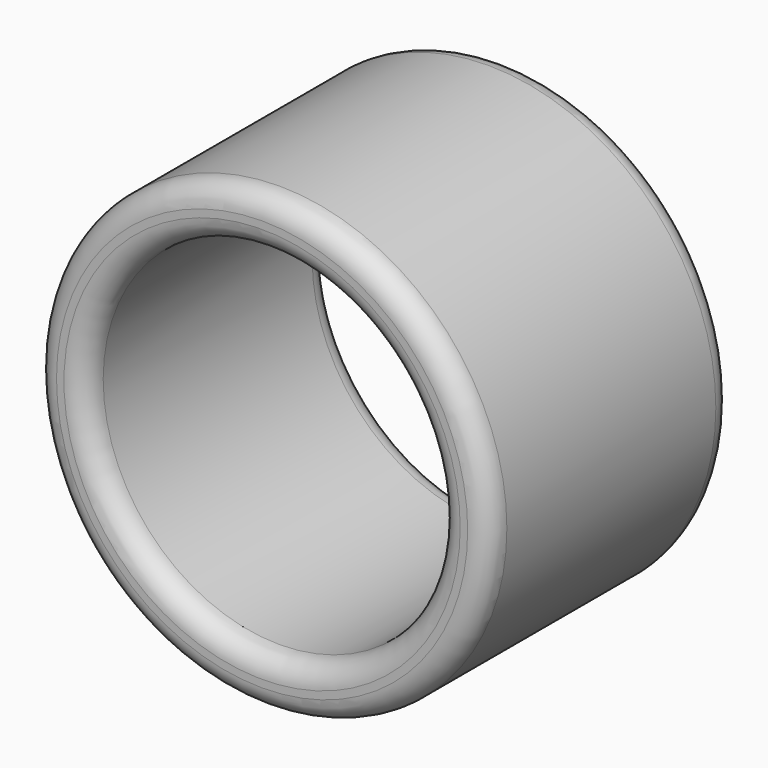
from build123d import *

# Parameters (mm, degrees)
F0_R     = 53.062047
F0_R_2   = 41.15854
F1_DEPTH = 71.12
F2_R     = 5.08
F3_R     = 5.08
F4_R     = 5.08
F5_R     = 5.08


with BuildPart() as f1:
    # F0 (on Front) → F1 (new body)
    with BuildSketch(Plane.XZ):
        Circle(F0_R)
        Circle(F0_R_2, mode=Mode.SUBTRACT)
    extrude(amount=F1_DEPTH)

    # F2
    f2_edges = [f1.edges().sort_by_distance(p)[0] for p in [
        (-53.062047, -71.12, 0),
    ]]
    fillet(f2_edges, radius=F2_R)

    # F3
    f3_edges = [f1.edges().sort_by_distance(p)[0] for p in [
        (-41.15854, -71.12, 0),
    ]]
    fillet(f3_edges, radius=F3_R)

    # F4
    f4_edges = [f1.edges().sort_by_distance(p)[0] for p in [
        (-53.062047, 0, 0),
    ]]
    fillet(f4_edges, radius=F4_R)

    # F5
    f5_edges = [f1.edges().sort_by_distance(p)[0] for p in [
        (-41.15854, 0, 0),
    ]]
    fillet(f5_edges, radius=F5_R)


solid = f1.part
